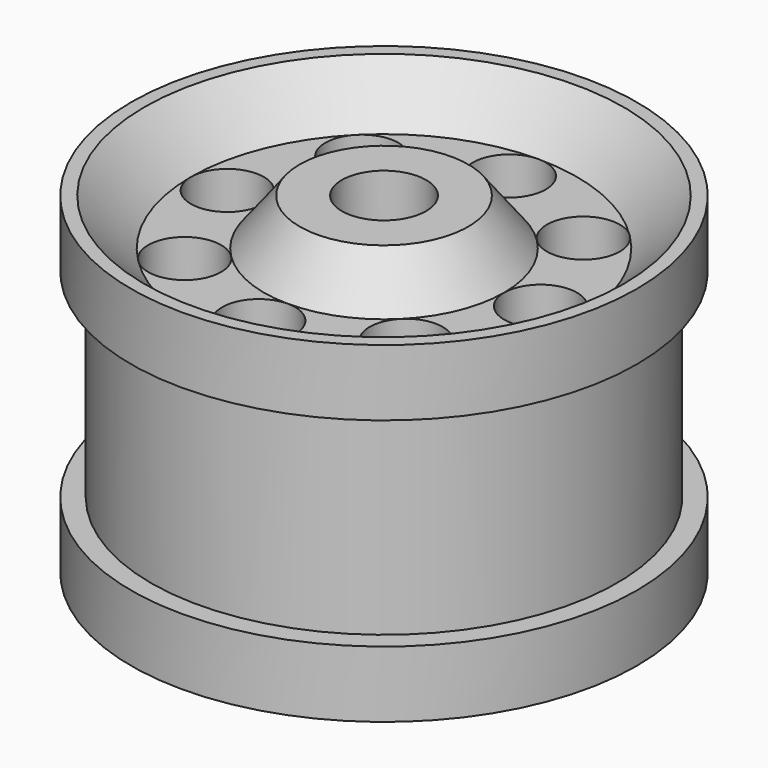
from build123d import *

# Parameters (mm, degrees)
F2_R     = 5.5
F3_DEPTH = 25
F4_R     = 6.35
F5_DEPTH = 25


with BuildPart() as f1:
    # F0 (on Front) → F1 (revolve)
    with BuildSketch(Plane.XZ):
        Polygon((-38.1, 50), (-38.1, 40), (-35.1, 40), (-35.1, 10), (-38.1, 10), (-38.1, 0), (-35.1, 0), (-29.1, 0), (-29.1, 30), (0, 30), (0, 50), (-12.7, 50), (-18.1, 43), (-29.1, 43), (-36.1, 50), align=None)
    revolve(axis=Axis((0, 0, 40), (0, 0, -1)))

    # F2 (on face) → F3 (cut)
    with BuildSketch(Plane.XY.offset(43)):
        with Locations((-23.6, 0)):
            Circle(F2_R)
        with Locations((-16.68772, -16.68772)):
            Circle(F2_R)
        with Locations((0, -23.6)):
            Circle(F2_R)
        with Locations((16.68772, -16.68772)):
            Circle(F2_R)
        with Locations((23.6, 0)):
            Circle(F2_R)
        with Locations((16.68772, 16.68772)):
            Circle(F2_R)
        with Locations((0, 23.6)):
            Circle(F2_R)
        with Locations((-16.68772, 16.68772)):
            Circle(F2_R)
    extrude(amount=-F3_DEPTH, mode=Mode.SUBTRACT)

    # F4 (on face) → F5 (cut)
    with BuildSketch(Plane.XY.offset(50)):
        Circle(F4_R)
    extrude(amount=-F5_DEPTH, mode=Mode.SUBTRACT)


solid = f1.part
